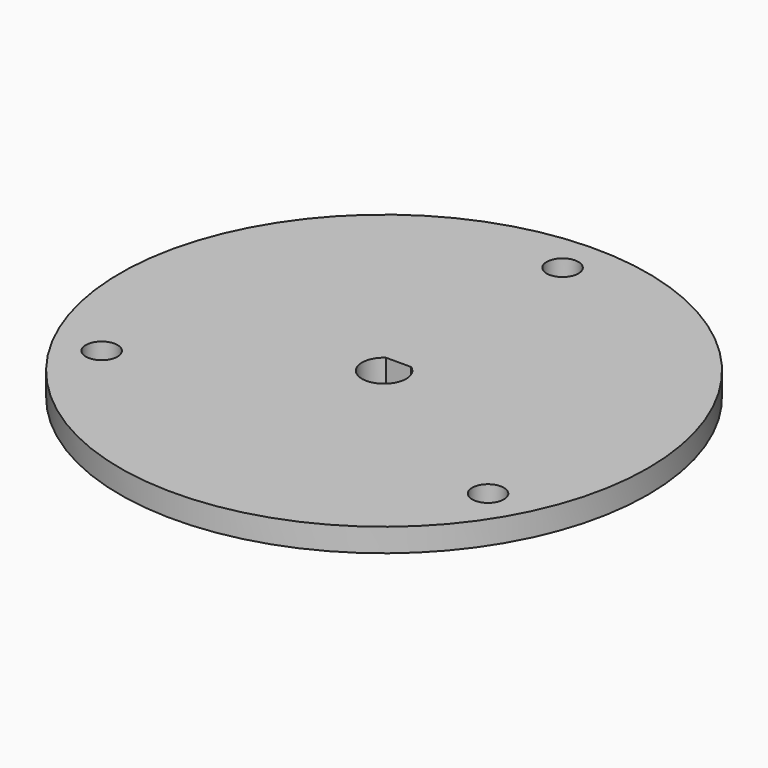
from build123d import *

# Parameters (mm, degrees)
F0_R     = 35.8775
F0_R_2   = 2.15265
F1_DEPTH = 3.175


with BuildPart() as f1:
    # F0 (on Top) → F1 (new body)
    with BuildSketch(Plane.XY):
        Circle(F0_R)
        with Locations((-26.258973, -15.160625)):
            Circle(F0_R_2, mode=Mode.SUBTRACT)
        with BuildLine():
            ThreePointArc((1.715656, 2.460994), (0, -2.999994), (-1.715656, 2.460994))
            Line((-1.715656, 2.460994), (1.715656, 2.460994))
        make_face(mode=Mode.SUBTRACT)
        with Locations((26.258973, -15.160625)):
            Circle(F0_R_2, mode=Mode.SUBTRACT)
        with Locations((0, 30.32125)):
            Circle(F0_R_2, mode=Mode.SUBTRACT)
    extrude(amount=F1_DEPTH)


solid = f1.part
